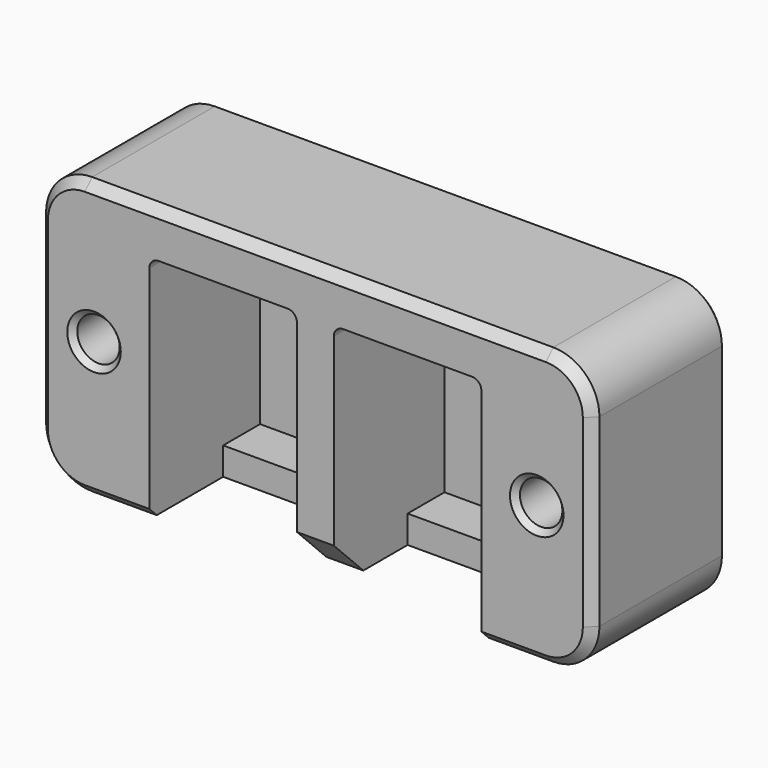
from build123d import *

# Parameters (mm, degrees)
SKETCH_W        = 60
SKETCH_H        = 30
PAD_DEPTH       = 18
SKETCH001_W     = 16
SKETCH001_H     = 22
POCKET_DEPTH    = 15
SKETCH002_W     = 16
SKETCH002_H     = 10
POCKET001_DEPTH = 5
SKETCH003_R     = 2.3
POCKET002_DEPTH = 10
FILLET_R        = 5
CHAMFER_SIZE    = 4
CHAMFER001_SIZE = 0.6
CHAMFER002_SIZE = 1
SKETCH004_R     = 4
POCKET003_DEPTH = 5
CHAMFER003_SIZE = 0.4
FILLET001_R     = 1


with BuildPart() as part:
    # Sketch (on XZ_Plane of Origin) → Pad (new body)
    with BuildSketch(Plane.XZ):
        Rectangle(SKETCH_W, SKETCH_H)
    extrude(amount=PAD_DEPTH)

    # Sketch001 (on Face6 of Pad) → Pocket (cut)
    with BuildSketch(Plane.XZ.offset(18)):
        with Locations((-10, -1)):
            Rectangle(SKETCH001_W, SKETCH001_H)
        with Locations((10, -1)):
            Rectangle(SKETCH001_W, SKETCH001_H)
    extrude(amount=-POCKET_DEPTH, mode=Mode.SUBTRACT)

    # Sketch002 (on Face13 of Pocket) → Pocket001 (cut)
    with BuildSketch(Plane.XY.offset(-12)):
        with Locations((-10, -13)):
            Rectangle(SKETCH002_W, SKETCH002_H)
        with Locations((10, -13)):
            Rectangle(SKETCH002_W, SKETCH002_H)
    extrude(amount=-POCKET001_DEPTH, mode=Mode.SUBTRACT)

    # Sketch003 (on Face4 of Pocket001) → Pocket002 (cut)
    with BuildSketch(Plane.XZ.offset(18)):
        with Locations((-24, 0)):
            Circle(SKETCH003_R)
        with Locations((24, 0)):
            Circle(SKETCH003_R)
    extrude(amount=-POCKET002_DEPTH, mode=Mode.SUBTRACT)

    # Fillet
    fillet_edges = [part.edges().sort_by_distance(p)[0] for p in [
        (30, -9, -15),
        (30, -9, 15),
        (-30, -9, 15),
        (-30, -9, -15),
    ]]
    fillet(fillet_edges, radius=FILLET_R)

    # Chamfer
    chamfer_edges = [part.edges().sort_by_distance(p)[0] for p in [
        (0, -18, -15),
    ]]
    chamfer(chamfer_edges, length=CHAMFER_SIZE)

    # Chamfer001
    chamfer001_edges = [part.edges().sort_by_distance(p)[0] for p in [
        (-26.3, -18, 0),
        (21.7, -18, 0),
    ]]
    chamfer(chamfer001_edges, length=CHAMFER001_SIZE)

    # Chamfer002
    chamfer002_edges = [part.edges().sort_by_distance(p)[0] for p in [
        (-21.5, -18, -15),
    ]]
    chamfer(chamfer002_edges, length=CHAMFER002_SIZE)

    # Sketch004 → Pocket003 (cut)
    with BuildSketch(Plane.XZ.offset(3)):
        with Locations((-10, 0)):
            Circle(SKETCH004_R)
        with Locations((10, 0)):
            Circle(SKETCH004_R)
    extrude(amount=-POCKET003_DEPTH, mode=Mode.SUBTRACT)

    # Chamfer003
    chamfer003_edges = [part.edges().sort_by_distance(p)[0] for p in [
        (0, 0, -15),
        (-28.535534, 0, -13.535534),
        (28.535534, 0, -13.535534),
        (-30, 0, 0),
        (30, 0, 0),
        (-28.535534, 0, 13.535534),
        (28.535534, 0, 13.535534),
        (0, 0, 15),
        (-14, 0, 0),
        (6, 0, 0),
    ]]
    chamfer(chamfer003_edges, length=CHAMFER003_SIZE)

    # Fillet001
    fillet001_edges = [part.edges().sort_by_distance(p)[0] for p in [
        (-2, -10.5, 10),
        (2, -10.5, 10),
        (18, -10.5, 10),
        (-18, -10.5, 10),
    ]]
    fillet(fillet001_edges, radius=FILLET001_R)


solid = part.part
